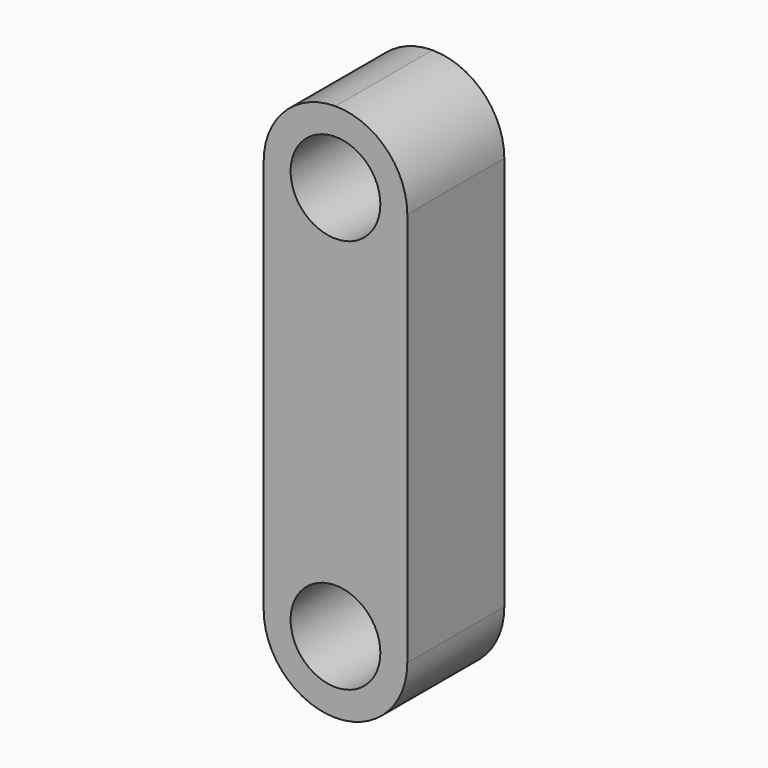
from build123d import *

# Parameters (mm, degrees)
F1_DEPTH = 67.6
F2_R     = 25
F3_DEPTH = 67.6


with BuildPart() as f1:
    # F0 (on Front) → F1 (new body)
    with BuildSketch(Plane.XZ):
        with BuildLine():
            Line((40, -110), (40, 110))
            ThreePointArc((40, 110), (28.284271, 138.284271), (0, 150))
            ThreePointArc((0, 150), (-28.284271, 138.284271), (-40, 110))
            Line((-40, 110), (-40, -110))
            ThreePointArc((-40, -110), (-28.284271, -138.284271), (0, -150))
            ThreePointArc((0, -150), (28.284271, -138.284271), (40, -110))
        make_face()
    extrude(amount=F1_DEPTH)

    # F2 (on face) → F3 (cut, through all)
    with BuildSketch(Plane.XZ.offset(67.6)):
        with Locations((0, 110)):
            Circle(F2_R)
        with Locations((0, -110)):
            Circle(F2_R)
    extrude(amount=-F3_DEPTH, mode=Mode.SUBTRACT)


solid = f1.part
